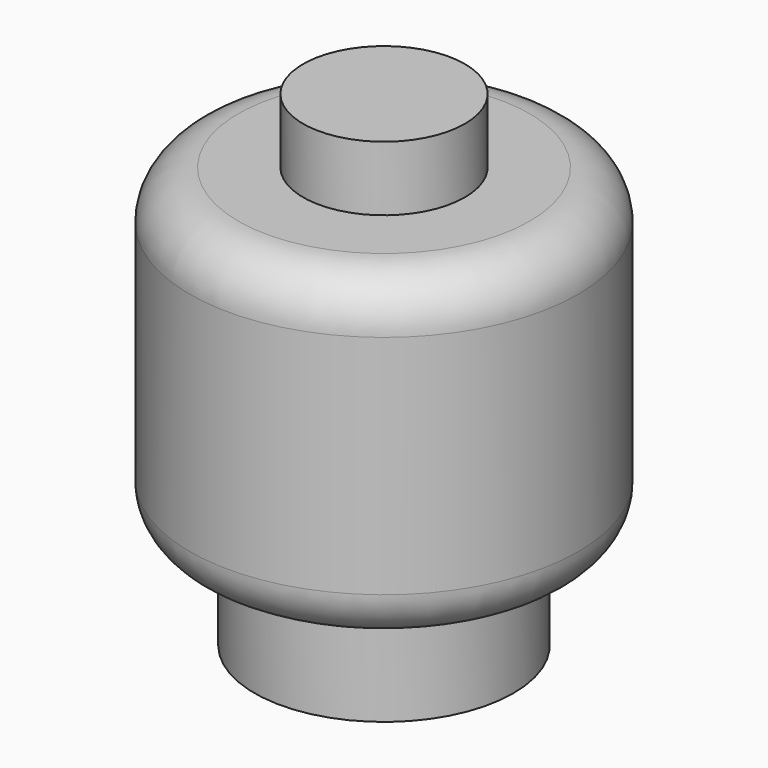
from build123d import *

# Parameters (mm, degrees)
F0_R     = 4
F1_DEPTH = 3
F2_R     = 6
F3_DEPTH = 10
F4_R     = 2.5
F5_DEPTH = 2
F6_R     = 1.5
F7_R     = 2.5
F8_DEPTH = 8


with BuildPart() as f1:
    # F0 (on Top) → F1 (new body)
    with BuildSketch(Plane.XY):
        Circle(F0_R)
    extrude(amount=F1_DEPTH)

    # F2 (on face) → F3 (join)
    with BuildSketch(Plane.XY.offset(3)):
        Circle(F2_R)
    extrude(amount=F3_DEPTH)

    # F4 (on face) → F5 (join)
    with BuildSketch(Plane.XY.offset(13)):
        Circle(F4_R)
    extrude(amount=F5_DEPTH)

    # F6
    f6_edges = [f1.edges().sort_by_distance(p)[0] for p in [
        (-6, 0, 13),
        (-6, 0, 3),
    ]]
    fillet(f6_edges, radius=F6_R)

    # F7 (on face) → F8 (cut)
    with BuildSketch(Plane(origin=(0, 0, 0), x_dir=(1, 0, 0), z_dir=(0, 0, -1))):
        Circle(F7_R)
    extrude(amount=-F8_DEPTH, mode=Mode.SUBTRACT)


solid = f1.part
